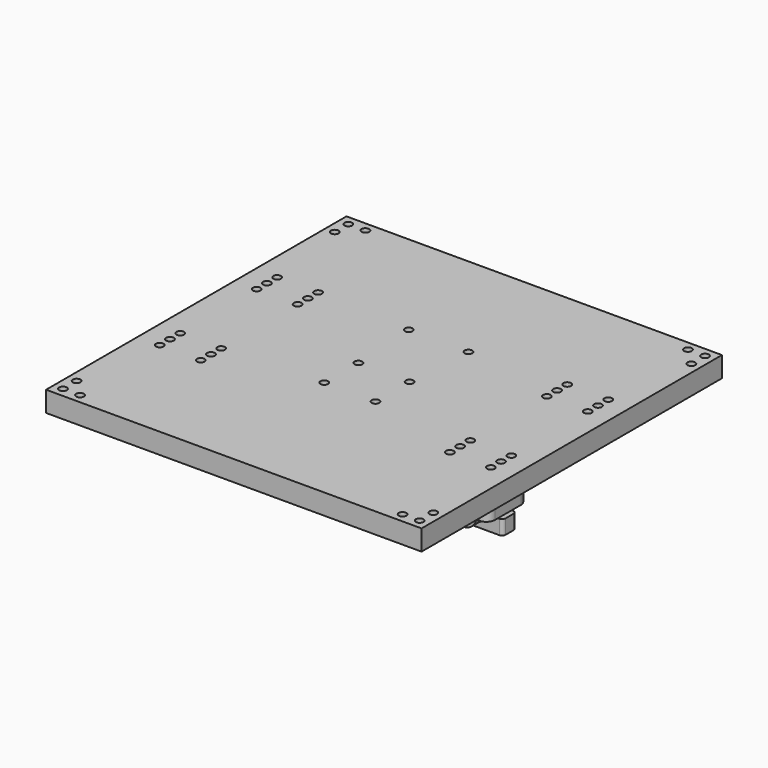
from build123d import *

# Parameters (mm, degrees)
F0_W      = 220
F0_H      = 220
F0_R      = 2.25
F1_DEPTH  = 12
F2_W      = 15
F2_H      = 160
F3_DEPTH  = 3
F5_W      = 47
F5_H      = 12
F5_R      = 1.75
F6_DEPTH  = 5
F8_DEPTH  = 2
F9_R      = 1.75
F9_R_2    = 1.9
F10_DEPTH = 13
F11_R     = 3.25
F12_DEPTH = 5
F13_R     = 5
F14_DEPTH = 30
F16_START = 1.5
F15_R     = 2.25
F16_DEPTH = 8.5
F18_START = -2
F17_R     = 7.75
F18_DEPTH = 25
F19_R     = 7.5
F19_R_2   = 4
F20_DEPTH = 24
F21_R     = 1.75
F22_DEPTH = 6
F23_W     = 20
F23_H     = 31
F24_DEPTH = 16
F25_R     = 1.75
F26_DEPTH = 25
F28_START = 6
F28_DEPTH = 4
F30_START = 2
F29_W     = 20
F29_H     = 10
F29_R     = 2
F30_DEPTH = 4
F31_W     = 7.5
F31_H     = 1.0262289196
F32_DEPTH = 11.58


with BuildPart() as f1:
    # F0 (on Top) → F1 (new body)
    with BuildSketch(Plane.XY):
        Rectangle(F0_W, F0_H)
        with Locations((-104.5, -104.5)):
            Circle(F0_R, mode=Mode.SUBTRACT)
        with Locations((-94.5, -104.5)):
            Circle(F0_R, mode=Mode.SUBTRACT)
        with Locations((-104.5, -94.5)):
            Circle(F0_R, mode=Mode.SUBTRACT)
        with Locations((-97, -43)):
            Circle(F0_R, mode=Mode.SUBTRACT)
        with Locations((-97, -35.5)):
            Circle(F0_R, mode=Mode.SUBTRACT)
        with Locations((-97, -28)):
            Circle(F0_R, mode=Mode.SUBTRACT)
        with Locations((-73, -43)):
            Circle(F0_R, mode=Mode.SUBTRACT)
        with Locations((-73, -35.5)):
            Circle(F0_R, mode=Mode.SUBTRACT)
        with Locations((-73, -28)):
            Circle(F0_R, mode=Mode.SUBTRACT)
        with Locations((-15, -25)):
            Circle(F0_R, mode=Mode.SUBTRACT)
        with Locations((94.5, -104.5)):
            Circle(F0_R, mode=Mode.SUBTRACT)
        with Locations((104.5, -104.5)):
            Circle(F0_R, mode=Mode.SUBTRACT)
        with Locations((104.5, -94.5)):
            Circle(F0_R, mode=Mode.SUBTRACT)
        with Locations((15, -25)):
            Circle(F0_R, mode=Mode.SUBTRACT)
        with Locations((73, -43)):
            Circle(F0_R, mode=Mode.SUBTRACT)
        with Locations((73, -35.5)):
            Circle(F0_R, mode=Mode.SUBTRACT)
        with Locations((73, -28)):
            Circle(F0_R, mode=Mode.SUBTRACT)
        with Locations((97, -43)):
            Circle(F0_R, mode=Mode.SUBTRACT)
        with Locations((97, -35.5)):
            Circle(F0_R, mode=Mode.SUBTRACT)
        with Locations((97, -28)):
            Circle(F0_R, mode=Mode.SUBTRACT)
        with Locations((-97, 28)):
            Circle(F0_R, mode=Mode.SUBTRACT)
        with Locations((-97, 35.5)):
            Circle(F0_R, mode=Mode.SUBTRACT)
        with Locations((-97, 43)):
            Circle(F0_R, mode=Mode.SUBTRACT)
        with Locations((-73, 28)):
            Circle(F0_R, mode=Mode.SUBTRACT)
        with Locations((-73, 35.5)):
            Circle(F0_R, mode=Mode.SUBTRACT)
        with Locations((-73, 43)):
            Circle(F0_R, mode=Mode.SUBTRACT)
        with Locations((-15, 0)):
            Circle(F0_R, mode=Mode.SUBTRACT)
        with Locations((-17.5, 40)):
            Circle(F0_R, mode=Mode.SUBTRACT)
        with Locations((-104.5, 94.5)):
            Circle(F0_R, mode=Mode.SUBTRACT)
        with Locations((-104.5, 104.5)):
            Circle(F0_R, mode=Mode.SUBTRACT)
        with Locations((-94.5, 104.5)):
            Circle(F0_R, mode=Mode.SUBTRACT)
        with Locations((15, 0)):
            Circle(F0_R, mode=Mode.SUBTRACT)
        with Locations((17.5, 40)):
            Circle(F0_R, mode=Mode.SUBTRACT)
        with Locations((73, 28)):
            Circle(F0_R, mode=Mode.SUBTRACT)
        with Locations((73, 35.5)):
            Circle(F0_R, mode=Mode.SUBTRACT)
        with Locations((73, 43)):
            Circle(F0_R, mode=Mode.SUBTRACT)
        with Locations((97, 28)):
            Circle(F0_R, mode=Mode.SUBTRACT)
        with Locations((97, 35.5)):
            Circle(F0_R, mode=Mode.SUBTRACT)
        with Locations((97, 43)):
            Circle(F0_R, mode=Mode.SUBTRACT)
        with Locations((104.5, 94.5)):
            Circle(F0_R, mode=Mode.SUBTRACT)
        with Locations((94.5, 104.5)):
            Circle(F0_R, mode=Mode.SUBTRACT)
        with Locations((104.5, 104.5)):
            Circle(F0_R, mode=Mode.SUBTRACT)
    extrude(amount=F1_DEPTH)

    # F2 (on face) → F3 (cut)
    with BuildSketch(Plane(origin=(0, 0, 0), x_dir=(1, 0, 0), z_dir=(0, 0, -1))):
        with Locations((0, -30)):
            Rectangle(F2_W, F2_H)
    extrude(amount=-F3_DEPTH, mode=Mode.SUBTRACT)


with BuildPart() as f6:
    # F5 (on offset) → F6 (new body)
    with BuildSketch(Plane(origin=(0, 0, -2), x_dir=(1, 0, 0), z_dir=(0, 0, -1))):
        with Locations((0, -40)):
            Rectangle(F5_W, F5_H)
        with Locations((-17.5, -40)):
            Circle(F5_R, mode=Mode.SUBTRACT)
        with Locations((17.5, -40)):
            Circle(F5_R, mode=Mode.SUBTRACT)
    extrude(amount=F6_DEPTH)

    # F7 (on face) → F8 (join)
    with BuildSketch(Plane.XY.offset(-2)):
        Polygon((6.5, 45), (0, 45), (-6.5, 45), (-6.5, 43), (0, 43), (6.5, 43), align=None)
        Polygon((6.5, 35), (6.5, 37), (0, 37), (-6.5, 37), (-6.5, 35), (0, 35), align=None)
    extrude(amount=F8_DEPTH)


with BuildPart() as f10:
    # F9 (on Top) → F10 (new body)
    with BuildSketch(Plane.XY):
        with BuildLine():
            ThreePointArc((69, -45), (70.4644660941, -48.5355339059), (74, -50))
            Line((74, -50), (96, -50))
            ThreePointArc((96, -50), (99.5355339059, -48.5355339059), (101, -45))
            Line((101, -45), (101, -26))
            ThreePointArc((101, -26), (99.5355339059, -22.4644660941), (96, -21))
            Line((96, -21), (74, -21))
            ThreePointArc((74, -21), (70.4644660941, -22.4644660941), (69, -26))
            Line((69, -26), (69, -45))
        make_face()
        with Locations((73, -43)):
            Circle(F9_R, mode=Mode.SUBTRACT)
        with Locations((97, -43)):
            Circle(F9_R, mode=Mode.SUBTRACT)
        with Locations((73, -35.5)):
            Circle(F9_R_2, mode=Mode.SUBTRACT)
        with Locations((73, -28)):
            Circle(F9_R, mode=Mode.SUBTRACT)
        with Locations((97, -35.5)):
            Circle(F9_R_2, mode=Mode.SUBTRACT)
        with Locations((97, -28)):
            Circle(F9_R, mode=Mode.SUBTRACT)
    extrude(amount=-F10_DEPTH)

    # F11 (on face) → F12 (cut)
    with BuildSketch(Plane.XY):
        with Locations((97, -35.5)):
            Circle(F11_R)
        with Locations((73, -35.5)):
            Circle(F11_R)
    extrude(amount=-F12_DEPTH, mode=Mode.SUBTRACT)

    # F13 (on face) → F14 (cut)
    with BuildSketch(Plane.XZ.offset(50)):
        with Locations((85, -13)):
            Circle(F13_R)
    extrude(amount=-F14_DEPTH, mode=Mode.SUBTRACT)


with BuildPart() as f16:
    # F15 (on face) → F16 (new body)
    with BuildSketch(Plane(origin=(0, 0, -13), x_dir=(1, 0, 0), z_dir=(0, 0, -1)).offset(F16_START)):
        with BuildLine():
            Line((102, 32.5), (102, 38.5))
            ThreePointArc((102, 38.5), (101.4142135624, 39.9142135624), (100, 40.5))
            Line((100, 40.5), (85, 40.5))
            Line((85, 40.5), (70, 40.5))
            ThreePointArc((70, 40.5), (68.5857864376, 39.9142135624), (68, 38.5))
            Line((68, 38.5), (68, 32.5))
            ThreePointArc((68, 32.5), (68.5857864376, 31.0857864376), (70, 30.5))
            Line((70, 30.5), (85, 30.5))
            Line((85, 30.5), (100, 30.5))
            ThreePointArc((100, 30.5), (101.4142135624, 31.0857864376), (102, 32.5))
        make_face()
        with Locations((73, 35.5)):
            Circle(F15_R, mode=Mode.SUBTRACT)
        with Locations((97, 35.5)):
            Circle(F15_R, mode=Mode.SUBTRACT)
    extrude(amount=F16_DEPTH)


with BuildPart() as f18_tool:
    # F17 (on face) → F18 (new body)
    with BuildSketch(Plane.XZ.offset(50).offset(F18_START)):
        with Locations((85, -13)):
            Circle(F17_R)
    extrude(amount=-F18_DEPTH)


with BuildPart() as f10_1:
    add(f10.part)

    # F18: cut by f18_tool
    add(f18_tool.part, mode=Mode.SUBTRACT)


with BuildPart() as f16_1:
    add(f16.part)

    # F18: cut by f18_tool
    add(f18_tool.part, mode=Mode.SUBTRACT)


with BuildPart() as f20:
    # F19 (on face) → F20 (new body)
    with BuildSketch(Plane(origin=(0, -48, 0), x_dir=(-1, 0, 0), z_dir=(0, 1, 0))):
        with Locations((-85, -13)):
            Circle(F19_R)
        with Locations((-85, -13)):
            Circle(F19_R_2, mode=Mode.SUBTRACT)
    extrude(amount=F20_DEPTH)


with BuildPart() as f22:
    # F21 (on face) → F22 (new body)
    with BuildSketch(Plane(origin=(0, 0, 0), x_dir=(1, 0, 0), z_dir=(0, 0, -1))):
        with BuildLine():
            Line((15, 30), (-15, 30))
            ThreePointArc((-15, 30), (-18.5355339059, 28.5355339059), (-20, 25))
            Line((-20, 25), (-20, 0))
            ThreePointArc((-20, 0), (-18.5355339059, -3.5355339059), (-15, -5))
            Line((-15, -5), (15, -5))
            ThreePointArc((15, -5), (18.5355339059, -3.5355339059), (20, 0))
            Line((20, 0), (20, 25))
            ThreePointArc((20, 25), (18.5355339059, 28.5355339059), (15, 30))
        make_face()
        with Locations((-15, 0)):
            Circle(F21_R, mode=Mode.SUBTRACT)
        with Locations((15, 0)):
            Circle(F21_R, mode=Mode.SUBTRACT)
        with Locations((-15, 25)):
            Circle(F21_R, mode=Mode.SUBTRACT)
        with Locations((15, 25)):
            Circle(F21_R, mode=Mode.SUBTRACT)
    extrude(amount=F22_DEPTH)

    # F23 (on face) → F24 (join)
    with BuildSketch(Plane(origin=(0, 0, -6), x_dir=(1, 0, 0), z_dir=(0, 0, -1))):
        with Locations((0, 12.5)):
            Rectangle(F23_W, F23_H)
    extrude(amount=F24_DEPTH)

    # F25 (on face) → F26 (cut)
    with BuildSketch(Plane(origin=(0, 0, -22), x_dir=(1, 0, 0), z_dir=(0, 0, -1))):
        with Locations((6, 22)):
            Circle(F25_R)
        with Locations((-6, 22)):
            Circle(F25_R)
        with Locations((-6, -22)):
            Circle(F25_R)
        with Locations((6, -22)):
            Circle(F25_R)
        with Locations((6, 3)):
            Circle(F25_R)
        with Locations((-6, 3)):
            Circle(F25_R)
    extrude(amount=-F26_DEPTH, mode=Mode.SUBTRACT)

    # F27 (on face) → F28 (cut)
    with BuildSketch(Plane(origin=(0, 0, -6), x_dir=(1, 0, 0), z_dir=(0, 0, -1)).offset(F28_START)):
        Polygon((4.2679491924, 25), (2.5358983849, 22), (4.2679491924, 19), (7.7320508076, 19), (27.2758665816, 19), (27.2758665816, 25), (7.7320508076, 25), align=None)
        Polygon((-7.7320508076, 19), (-4.2679491924, 19), (-2.5358983849, 22), (-4.2679491924, 25), (-7.7320508076, 25), (-27.2758665816, 25), (-27.2758665816, 19), align=None)
        Polygon((-2.5358983849, 3), (-4.2679491924, 6), (-7.7320508076, 6), (-27.2758665816, 6), (-27.2758665816, 0), (-7.7320508076, 0), (-4.2679491924, 0), align=None)
        Polygon((7.7320508076, 6), (4.2679491924, 6), (2.5358983849, 3), (4.2679491924, 0), (7.7320508076, 0), (27.2758665816, 0), (27.2758665816, 6), align=None)
    extrude(amount=F28_DEPTH, mode=Mode.SUBTRACT)


with BuildPart() as f30:
    # F29 (on face) → F30 (new body)
    with BuildSketch(Plane(origin=(0, 0, -22), x_dir=(1, 0, 0), z_dir=(0, 0, -1)).offset(F30_START)):
        with Locations((0, 22)):
            Rectangle(F29_W, F29_H)
        with Locations((-6, 22)):
            Circle(F29_R, mode=Mode.SUBTRACT)
        with Locations((6, 22)):
            Circle(F29_R, mode=Mode.SUBTRACT)
    extrude(amount=F30_DEPTH)

    # F31 (on face) → F32 (cut)
    with BuildSketch(Plane.XZ.offset(27)):
        with Locations((0, -23.9868855402)):
            Rectangle(F31_W, F31_H)
    extrude(amount=-F32_DEPTH, mode=Mode.SUBTRACT)


solid = Compound([f1.part, f6.part, f10_1.part, f16_1.part, f20.part, f22.part, f30.part])
